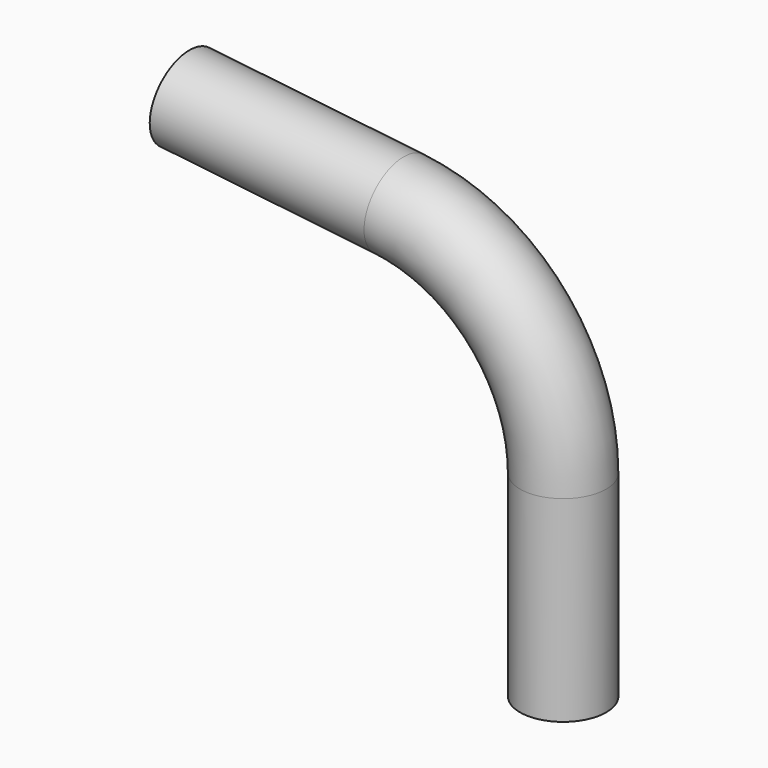
from build123d import *

# Parameters (mm, degrees)
F1_R     = 5.08
F3_R     = 5.08
F4_DEPTH = 25.4


with BuildPart() as f2:
    # F2: sweep along a path in F0
    with BuildLine(Plane.XZ) as f2_path:
        Line((-24.8281415552, 0), (-24.8281415552, 23.1442544609))
        ThreePointArc((-24.8281415552, 23.1442544609), (-30.3690083723, 37.6616484687), (-44.1735163331, 44.7954759002))
    # F1 (on Top) → F2 (sweep)
    with BuildSketch(Plane.XY):
        with Locations((-24.8281415552, 0)):
            Circle(F1_R)
    sweep(path=f2_path.line)

    # F3 (on face) → F4 (join)
    with BuildSketch(Plane(origin=(-48.609524297, 0, 5.4854220715), x_dir=(0, -1, 0), z_dir=(-0.9936929899, 0, 0.112134927))):
        with Locations((0, 39.5595563508)):
            Circle(F3_R)
    extrude(amount=F4_DEPTH)


solid = f2.part
